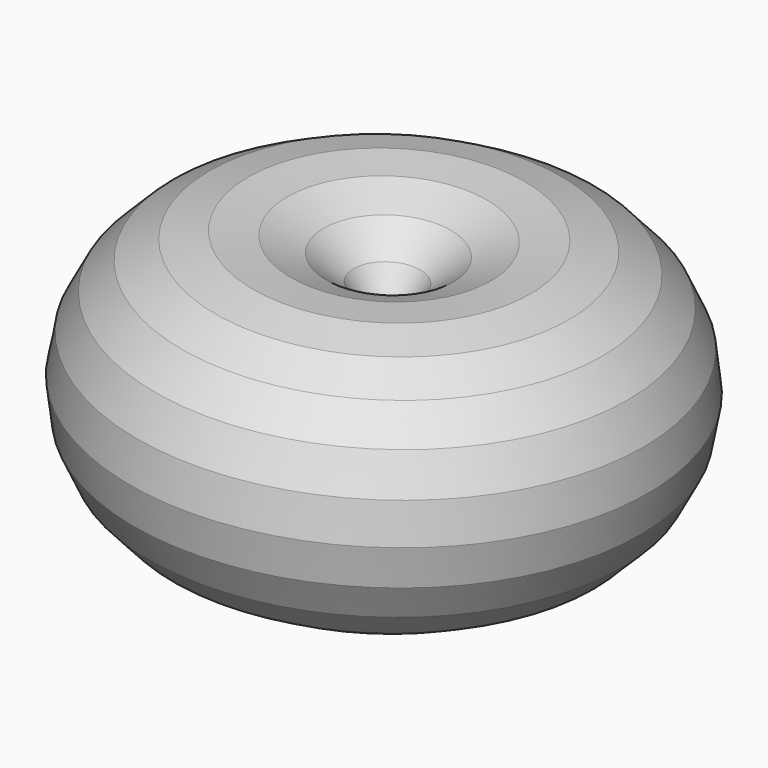
from build123d import *


with BuildPart() as f1:
    # F0 (on Front) → F1 (revolve)
    with BuildSketch(Plane.XZ):
        Polygon((-22.4218197928, -14.5648337765), (-17.8445179422, -15.8035797411), (-13.105445987, -15.6381082928), (-8.6256912676, -14.083122296), (-4.8032996498, -11.2767890804), (-1.9779074032, -7.4684636676), (-0.400563028, -2.9965324832), (-0.2114204938, 1.7416537625), (-1.427285945, 6.3250864282), (-3.9401244004, 10.3465074076), (-7.5266591359, 13.4485957989), (-11.868210801, 15.3557174353), (-16.5790134776, 15.8984161901), (-21.240491675, 15.0284708974), (-25.4384525986, 12.8231800141), (-28.7998889981, 9.4784933129), (-31.0261224978, 5.2916008852), (-31.9193424817, 0.6345264971), (-31.4001824344, -4.0789283549), (-29.5147720044, -8.4299525225), (-26.4306381823, -12.0319384142), align=None)
    revolve(axis=Axis((-0.3059917609, 0, -0.6274393604), (-0.0398869956, 0, -0.9992041971)))


solid = f1.part
